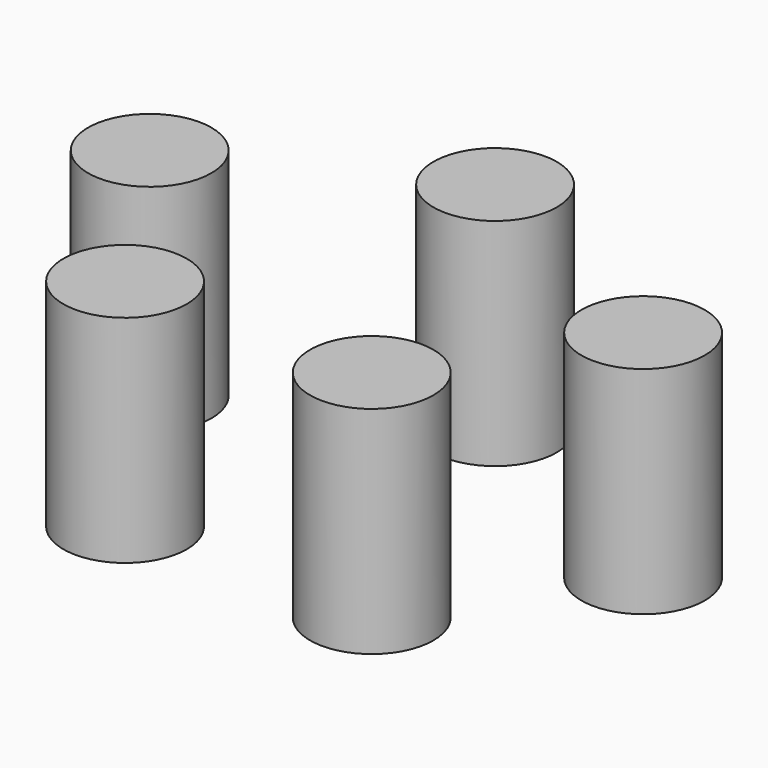
from build123d import *

# Parameters (mm, degrees)
CYLINDER002_R     = 1
CYLINDER002_DEPTH = 3.5
CYLINDER003_R     = 1
CYLINDER003_DEPTH = 3.5
CYLINDER004_R     = 1
CYLINDER004_DEPTH = 3.5
CYLINDER001_R     = 1
CYLINDER001_DEPTH = 3.5
CYLINDER_R        = 1
CYLINDER_DEPTH    = 3.5


with BuildPart() as cylinder002:
    # Cylinder002 → Cylinder002 (new body)
    with BuildSketch(Plane(origin=(27, 10, -3.5), x_dir=(1, 0, 0), z_dir=(0, 0, 1))):
        Circle(CYLINDER002_R)
    extrude(amount=CYLINDER002_DEPTH)


with BuildPart() as cylinder003:
    # Cylinder003 → Cylinder003 (new body)
    with BuildSketch(Plane(origin=(31, 10, -3.5), x_dir=(1, 0, 0), z_dir=(0, 0, 1))):
        Circle(CYLINDER003_R)
    extrude(amount=CYLINDER003_DEPTH)


with BuildPart() as cylinder004:
    # Cylinder004 → Cylinder004 (new body)
    with BuildSketch(Plane(origin=(33, 13, -3.5), x_dir=(1, 0, 0), z_dir=(0, 0, 1))):
        Circle(CYLINDER004_R)
    extrude(amount=CYLINDER004_DEPTH)


with BuildPart() as cylinder001:
    # Cylinder001 → Cylinder001 (new body)
    with BuildSketch(Plane(origin=(25, 13, -3.5), x_dir=(1, 0, 0), z_dir=(0, 0, 1))):
        Circle(CYLINDER001_R)
    extrude(amount=CYLINDER001_DEPTH)


with BuildPart() as obj1:
    # Cylinder → Cylinder (new body)
    with BuildSketch(Plane(origin=(29, 15, -3.5), x_dir=(1, 0, 0), z_dir=(0, 0, 1))):
        Circle(CYLINDER_R)
    extrude(amount=CYLINDER_DEPTH)

    # Fusion: union Cylinder002, Cylinder003, Cylinder004, Cylinder001
    add(cylinder002.part)
    add(cylinder003.part)
    add(cylinder004.part)
    add(cylinder001.part)


with BuildPart() as obj1_1:
    # Fusion placement: moved
    add(obj1.part.moved(Location((-18, 0, 0))))


solid = obj1_1.part
